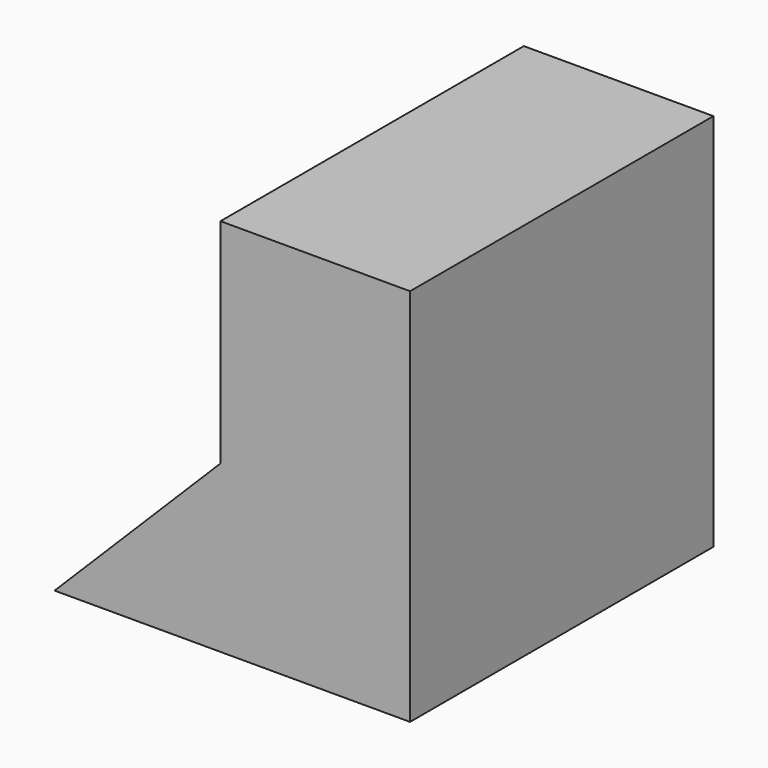
from build123d import *

# Parameters (mm, degrees)
F0_W     = 25.4
F0_H     = 50.8
F1_DEPTH = 50.8
F3_DEPTH = 50.8


with BuildPart() as f1:
    # F0 (on Front) → F1 (new body)
    with BuildSketch(Plane.XZ):
        with Locations((-12.7, 25.4)):
            Rectangle(F0_W, F0_H)
    extrude(amount=F1_DEPTH)

    # F2 (on Front) → F3 (join)
    with BuildSketch(Plane.XZ):
        Polygon((-47.622312, 0), (-22.222312, 0), (-22.222312, 25.4), align=None)
    extrude(amount=F3_DEPTH)


solid = f1.part
